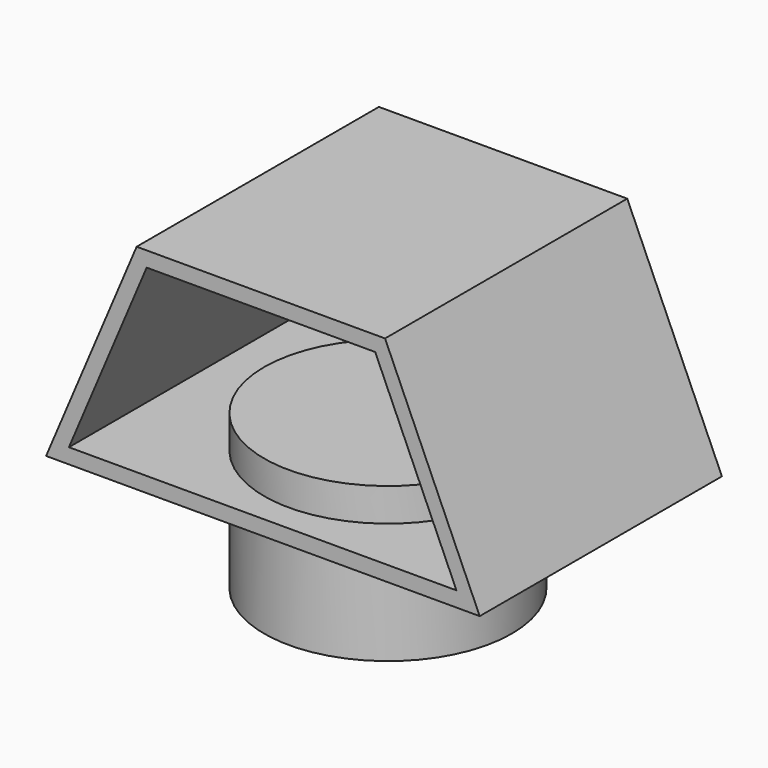
from build123d import *

# Parameters (mm, degrees)
F1_DEPTH = 25.4
F2_R     = 20.781866
F3_DEPTH = 17.769353
F4_DEPTH = 11.559019
F5_DEPTH = 25.4
F6_T     = -2.54
F7_DEPTH = 8.098027


with BuildPart() as f1:
    # F0 (on Front) → F1 (new body)
    with BuildSketch(Plane.XZ):
        Polygon((35.715379, 0), (19.829497, 35.855889), (-21.848936, 35.855889), (-37.045002, 0), (0, 0), align=None)
    extrude(amount=F1_DEPTH)

    # F2 (on Top) → F3 (join)
    with BuildSketch(Plane.XY):
        Circle(F2_R)
    extrude(amount=-F3_DEPTH)

    # F3_face (on face) → F4 (join)
    with BuildSketch(Plane(origin=(0, 8.820098, 0), x_dir=(1, 0, 0), z_dir=(0, 0, 1))):
        with BuildLine():
            Line((-20.781866, -8.820098), (20.781866, -8.820098))
            ThreePointArc((20.781866, -8.820098), (0, 11.961768), (-20.781866, -8.820098))
        make_face()
    extrude(amount=F4_DEPTH)

    # F0 (on Front) → F5 (join)
    with BuildSketch(Plane.XZ):
        Polygon((35.715379, 0), (19.829497, 35.855889), (-21.848936, 35.855889), (-37.045002, 0), (0, 0), align=None)
    extrude(amount=-F5_DEPTH)

    # F6
    f6_openings = [f1.faces().sort_by_distance(p)[0] for p in [
        (-0.821653, -25.4, 16.304849),
        (-0.821653, 25.4, 16.304849),
    ]]
    offset(amount=F6_T, openings=f6_openings)

    # F2 (on Top) → F7 (join)
    with BuildSketch(Plane.XY):
        Circle(F2_R)
    extrude(amount=F7_DEPTH)


solid = f1.part
